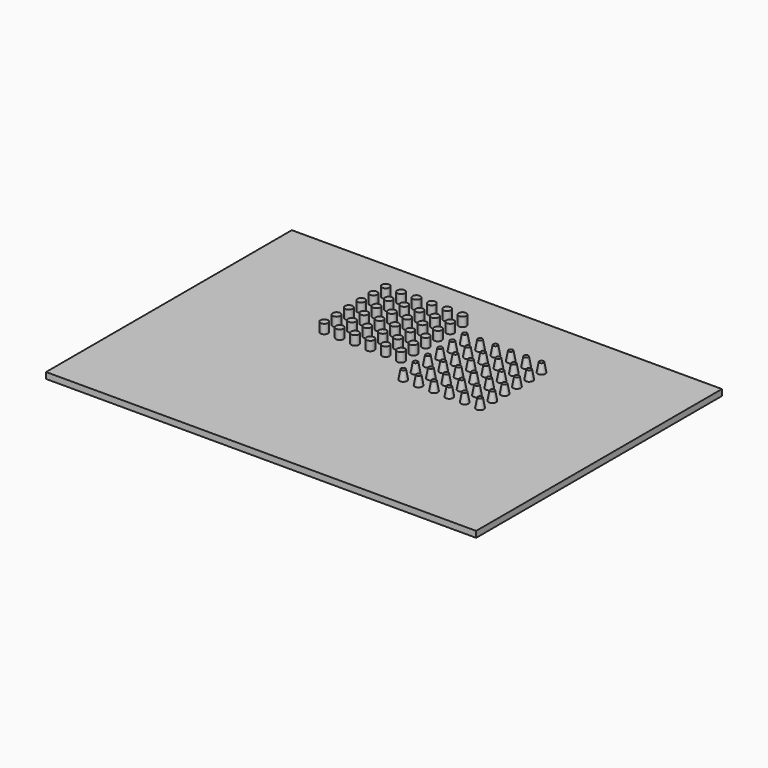
from build123d import *

# Parameters (mm, degrees)
F0_W     = 7
F0_H     = 10
F1_DEPTH = 0.2
F2_R     = 0.125
F3_R     = 0.125
F4_DEPTH = 0.3
F5_DEPTH = 0.3
F5_TAPER = 10


with BuildPart() as f1:
    # F0 (on Top) → F1 (new body)
    with BuildSketch(Plane.XY):
        with Locations((-3.5, 0)):
            Rectangle(F0_W, F0_H)
        with Locations((3.5, 0)):
            Rectangle(F0_W, F0_H)
    extrude(amount=-F1_DEPTH)

    # F2 (on face) + F3 (on face) → F4 (join)
    with BuildSketch(Plane.XY):
        with Locations((-1.3515888844, 2.135533792)):
            Circle(F2_R)
        with Locations((-0.8515888844, 3.635533792)):
            Circle(F2_R)
        with Locations((-0.8515888844, 2.135533792)):
            Circle(F2_R)
        with Locations((-0.3515888844, 3.635533792)):
            Circle(F2_R)
        with Locations((-1.3515888844, 1.635533792)):
            Circle(F2_R)
        with Locations((-1.8515888844, 1.135533792)):
            Circle(F2_R)
        with Locations((-0.8515888844, 1.635533792)):
            Circle(F2_R)
        with Locations((-2.8515888844, 3.135533792)):
            Circle(F2_R)
        with Locations((-2.8515888844, 3.635533792)):
            Circle(F2_R)
        with Locations((-0.8515888844, 1.135533792)):
            Circle(F2_R)
        with Locations((-2.8515888844, 1.135533792)):
            Circle(F2_R)
        with Locations((-1.8515888844, 2.135533792)):
            Circle(F2_R)
        with Locations((-2.8515888844, 2.135533792)):
            Circle(F2_R)
        with Locations((-2.3515888844, 1.135533792)):
            Circle(F2_R)
        with Locations((-1.3515888844, 1.135533792)):
            Circle(F2_R)
        with Locations((-0.3515888844, 3.135533792)):
            Circle(F2_R)
        with Locations((-2.3515888844, 3.635533792)):
            Circle(F2_R)
        with Locations((-1.8515888844, 1.635533792)):
            Circle(F2_R)
        with Locations((-2.3515888844, 3.135533792)):
            Circle(F2_R)
        with Locations((-2.3515888844, 2.635533792)):
            Circle(F2_R)
        with Locations((-0.3515888844, 1.635533792)):
            Circle(F2_R)
        with Locations((-2.3515888844, 2.135533792)):
            Circle(F2_R)
        with Locations((-2.3515888844, 1.635533792)):
            Circle(F2_R)
        with Locations((-2.8515888844, 2.635533792)):
            Circle(F2_R)
        with Locations((-2.8515888844, 1.635533792)):
            Circle(F2_R)
        with Locations((-1.8515888844, 2.635533792)):
            Circle(F2_R)
        with Locations((-0.8515888844, 2.635533792)):
            Circle(F2_R)
        with Locations((-0.3515888844, 1.135533792)):
            Circle(F2_R)
        with Locations((-1.3515888844, 2.635533792)):
            Circle(F2_R)
        with Locations((-0.8515888844, 3.135533792)):
            Circle(F2_R)
        with Locations((-1.3515888844, 3.135533792)):
            Circle(F2_R)
        with Locations((-0.3515888844, 2.135533792)):
            Circle(F2_R)
        with Locations((-1.8515888844, 3.135533792)):
            Circle(F2_R)
        with Locations((-1.3515888844, 3.635533792)):
            Circle(F2_R)
        with Locations((-0.3515888844, 2.635533792)):
            Circle(F2_R)
        with Locations((-1.8515888844, 3.635533792)):
            Circle(F2_R)
    with BuildSketch(Plane.XY):
        with Locations((-0.8515888844, 2.135533792)):
            Circle(F3_R)
    extrude(amount=F4_DEPTH)

    # F3 (on face) → F5 (join)
    with BuildSketch(Plane.XY):
        with Locations((0.3484835033, 0.3475129197)):
            Circle(F3_R)
        with Locations((0.3484835033, 0.8475129197)):
            Circle(F3_R)
        with Locations((0.3484835033, 1.3475129197)):
            Circle(F3_R)
        with Locations((0.3484835033, 1.8475129197)):
            Circle(F3_R)
        with Locations((0.3484835033, 2.3475129197)):
            Circle(F3_R)
        with Locations((0.3484835033, 2.8475129197)):
            Circle(F3_R)
        with Locations((0.8484835033, 0.3475129197)):
            Circle(F3_R)
        with Locations((0.8484835033, 0.8475129197)):
            Circle(F3_R)
        with Locations((0.8484835033, 1.3475129197)):
            Circle(F3_R)
        with Locations((0.8484835033, 1.8475129197)):
            Circle(F3_R)
        with Locations((0.8484835033, 2.3475129197)):
            Circle(F3_R)
        with Locations((0.8484835033, 2.8475129197)):
            Circle(F3_R)
        with Locations((1.3484835033, 0.3475129197)):
            Circle(F3_R)
        with Locations((1.3484835033, 0.8475129197)):
            Circle(F3_R)
        with Locations((1.3484835033, 1.3475129197)):
            Circle(F3_R)
        with Locations((1.3484835033, 1.8475129197)):
            Circle(F3_R)
        with Locations((1.3484835033, 2.3475129197)):
            Circle(F3_R)
        with Locations((1.3484835033, 2.8475129197)):
            Circle(F3_R)
        with Locations((1.8484835033, 0.3475129197)):
            Circle(F3_R)
        with Locations((1.8484835033, 0.8475129197)):
            Circle(F3_R)
        with Locations((1.8484835033, 1.3475129197)):
            Circle(F3_R)
        with Locations((1.8484835033, 1.8475129197)):
            Circle(F3_R)
        with Locations((1.8484835033, 2.3475129197)):
            Circle(F3_R)
        with Locations((1.8484835033, 2.8475129197)):
            Circle(F3_R)
        with Locations((2.3484835033, 0.3475129197)):
            Circle(F3_R)
        with Locations((2.3484835033, 0.8475129197)):
            Circle(F3_R)
        with Locations((2.3484835033, 1.3475129197)):
            Circle(F3_R)
        with Locations((2.3484835033, 1.8475129197)):
            Circle(F3_R)
        with Locations((2.3484835033, 2.3475129197)):
            Circle(F3_R)
        with Locations((2.3484835033, 2.8475129197)):
            Circle(F3_R)
        with Locations((2.8484835033, 0.3475129197)):
            Circle(F3_R)
        with Locations((2.8484835033, 0.8475129197)):
            Circle(F3_R)
        with Locations((2.8484835033, 1.3475129197)):
            Circle(F3_R)
        with Locations((2.8484835033, 1.8475129197)):
            Circle(F3_R)
        with Locations((2.8484835033, 2.3475129197)):
            Circle(F3_R)
        with Locations((2.8484835033, 2.8475129197)):
            Circle(F3_R)
    extrude(amount=F5_DEPTH, taper=F5_TAPER)


solid = f1.part
